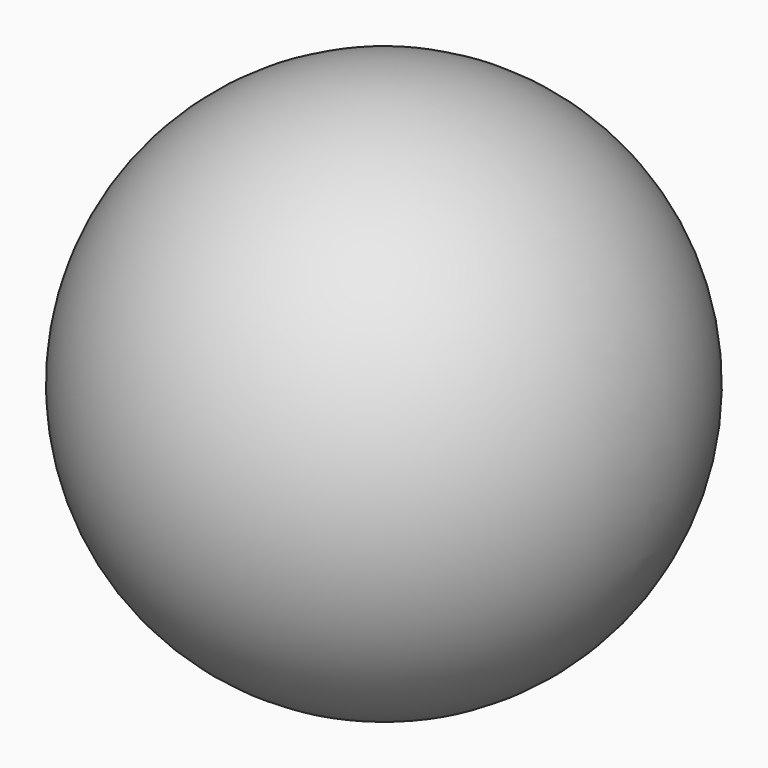
from build123d import *

# Parameters (mm, degrees)
F1_DEPTH = 6.985


with BuildPart() as f1:
    # F0 (on Front) → F1 (new body, symmetric)
    with BuildSketch(Plane.XZ):
        Polygon((2.4, 0), (0, 0), (-2.4, 0), (-2.4, -5.88), (0, -5.88), (2.4, -5.88), align=None)
        with BuildLine():
            ThreePointArc((-2.4, -5.88), (0, -8.28), (2.4, -5.88))
            Line((2.4, -5.88), (0, -5.88))
            Line((0, -5.88), (-2.4, -5.88))
        make_face()
    extrude(amount=F1_DEPTH, both=True)

    # F0 (on Front) → F2 (revolve)
    with BuildSketch(Plane.XZ):
        with BuildLine():
            Line((0, 2.226075), (0, 0))
            Line((0, 0), (2.4, 0))
            Line((2.4, 0), (7.1, 0))
            Line((7.1, 0), (7.1, -38.74))
            Line((7.1, -38.74), (7.64, -38.74))
            Line((7.64, -38.74), (7.64, -43.191675))
            Line((7.64, -43.191675), (7.64, -44.14))
            Line((7.64, -44.14), (7.64, -45.09))
            Line((7.64, -45.09), (7.64, -47))
            Line((7.64, -47), (10.58, -47))
            ThreePointArc((10.58, -47), (25.175101, -18.113122), (0, 2.226075))
        make_face()
        with BuildLine():
            Line((7.64, -44.14), (7.64, -43.191675))
            ThreePointArc((7.64, -43.191675), (7.416911, -43.642716), (7.34, -44.14))
            Line((7.34, -44.14), (7.64, -44.14))
        make_face()
        with BuildLine():
            ThreePointArc((7.34, -44.14), (7.416659, -44.63816), (7.64, -45.09))
            Line((7.64, -45.09), (7.64, -44.14))
            Line((7.64, -44.14), (7.34, -44.14))
        make_face()
    revolve(axis=Axis((0, 0, 1.113038), (0, 0, -1)))


solid = f1.part
